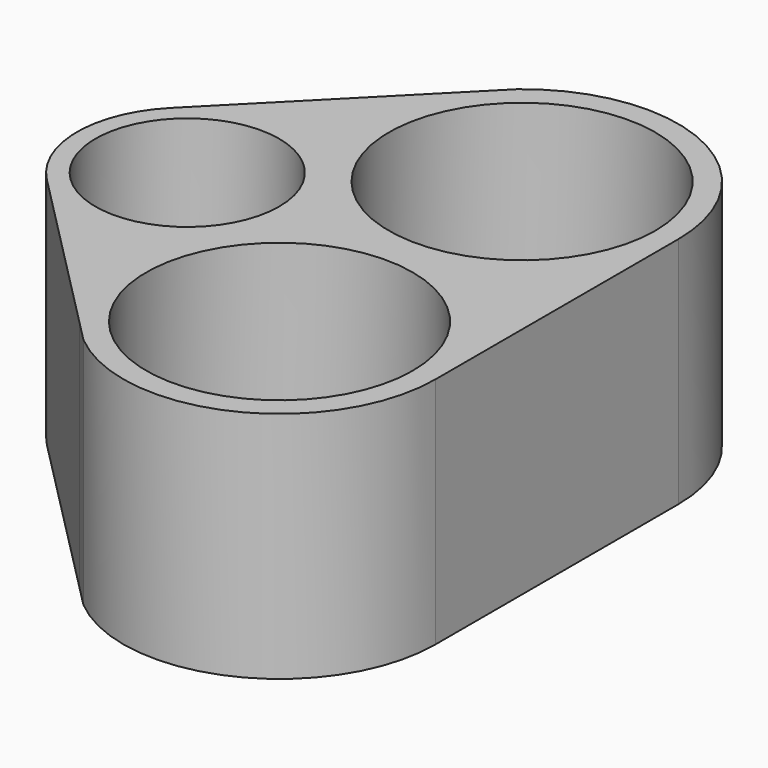
from build123d import *

# Parameters (mm, degrees)
F0_R     = 5
F0_R_2   = 7.25
F1_DEPTH = 12.7
F2_DEPTH = 2


with BuildPart() as f1:
    # F0 (on Top) → F1 (new body)
    with BuildSketch(Plane.XY):
        with BuildLine():
            Line((8.5, 0), (8.5, 16.5))
            ThreePointArc((8.5, 16.5), (3.596169, 24.20179), (-5.457075, 23.016927))
            Line((-5.457075, 23.016927), (-6.578885, 21.882218))
            Line((-6.578885, 21.882218), (-15.885772, 12.46832))
            ThreePointArc((-15.885772, 12.46832), (-17.61895, 8.249909), (-15.885645, 4.03155))
            Line((-15.885645, 4.03155), (-6.581584, -5.378917))
            Line((-6.581584, -5.378917), (-5.45341, -6.519994))
            ThreePointArc((-5.45341, -6.519994), (3.598334, -7.700779), (8.5, 0))
        make_face()
        with Locations((-11.61895, 8.25)):
            Circle(F0_R, mode=Mode.SUBTRACT)
        Circle(F0_R_2, mode=Mode.SUBTRACT)
        with Locations((0, 16.5)):
            Circle(F0_R_2, mode=Mode.SUBTRACT)
    extrude(amount=F1_DEPTH)

    # F0 (on Top) → F2 (join)
    with BuildSketch(Plane.XY):
        with BuildLine():
            Line((8.5, 0), (8.5, 16.5))
            ThreePointArc((8.5, 16.5), (3.596169, 24.20179), (-5.457075, 23.016927))
            Line((-5.457075, 23.016927), (-6.578885, 21.882218))
            Line((-6.578885, 21.882218), (-15.885772, 12.46832))
            ThreePointArc((-15.885772, 12.46832), (-17.61895, 8.249909), (-15.885645, 4.03155))
            Line((-15.885645, 4.03155), (-6.581584, -5.378917))
            Line((-6.581584, -5.378917), (-5.45341, -6.519994))
            ThreePointArc((-5.45341, -6.519994), (3.598334, -7.700779), (8.5, 0))
        make_face()
        with Locations((-11.61895, 8.25)):
            Circle(F0_R, mode=Mode.SUBTRACT)
        Circle(F0_R_2, mode=Mode.SUBTRACT)
        with Locations((0, 16.5)):
            Circle(F0_R_2, mode=Mode.SUBTRACT)
        with Locations((0, 16.5)):
            Circle(F0_R_2)
        Circle(F0_R_2)
        with Locations((-11.61895, 8.25)):
            Circle(F0_R)
    extrude(amount=F2_DEPTH)


solid = f1.part
